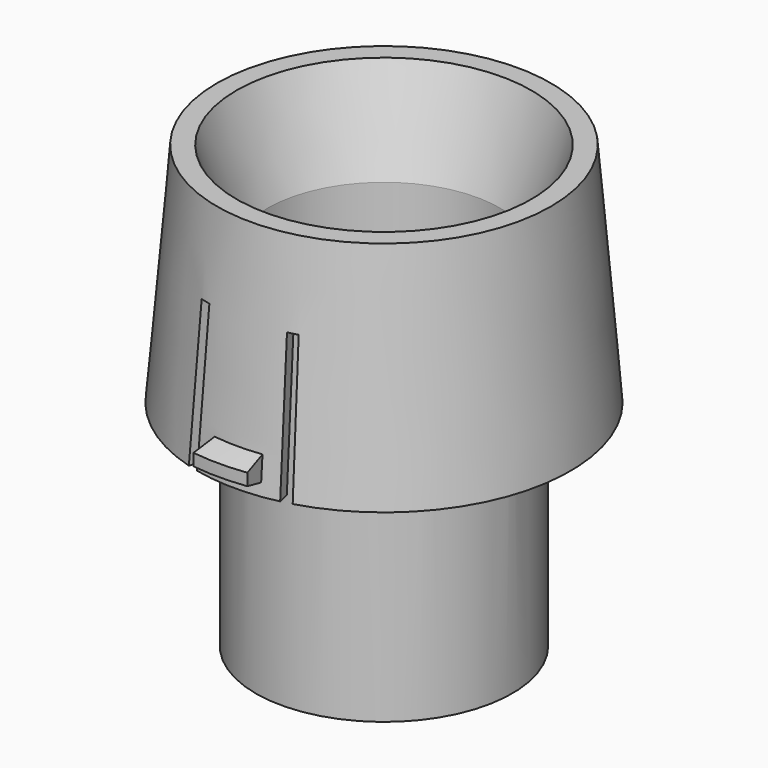
from build123d import *

# Parameters (mm, degrees)
REVOLUTION001_ANGLE = 15
POCKET_DEPTH        = 60
PAD_DEPTH           = 0.75
POLARPATTERN_COUNT  = 10


with BuildPart() as part:
    # Sketch → Revolution (revolve)
    with BuildSketch(Plane.XZ):
        Polygon((-21.5, 58), (-21.5, 0), (-19.5, 0), (-19.5, 58.324363), (-24.721948, 74), (-28, 74), (-31.25, 36), (-29.242699, 36), (-26.163751, 72), align=None)
    revolve(axis=Axis((0, 0, 0), (0, 0, 1)))

    # Sketch001 → Revolution001 (revolve, symmetric)
    with BuildSketch(Plane.YZ) as revolution001_sk:
        Polygon((-31.078947, 38), (-34.578947, 39), (-34.578947, 41), (-30.736842, 42), align=None)
        Polygon((30.736842, 42), (34.578947, 41), (34.578947, 39), (31.078947, 38), align=None)
    revolve(axis=Axis((0, 0, 0), (0, 0, 1)), revolution_arc=REVOLUTION001_ANGLE / 2)
    revolve(revolution001_sk.sketch, axis=Axis((0, 0, 0), (0, 0, -1)), revolution_arc=REVOLUTION001_ANGLE / 2)

    # Sketch002 → Pocket (cut)
    with BuildSketch(Plane(origin=(0, 0, 0), x_dir=(-1, 0, 0), z_dir=(0, 0, -1))):
        with BuildLine():
            ThreePointArc((-8, 35), (-9.003728, 34.755329), (-10, 34.481879))
            Line((-10, 34.481879), (-6.684744, 23.050254))
            ThreePointArc((-5.347795, 23.396604), (-6.018762, 23.233048), (-6.684744, 23.050254))
            Line((-5.347795, 23.396604), (-8, 35))
        make_face()
        with BuildLine():
            ThreePointArc((10, 34.481879), (9.003728, 34.755329), (8, 35))
            Line((5.347795, 23.396604), (8, 35))
            ThreePointArc((6.684744, 23.050254), (6.018762, 23.233048), (5.347795, 23.396604))
            Line((10, 34.481879), (6.684744, 23.050254))
        make_face()
        with BuildLine():
            ThreePointArc((-6.684744, -23.050254), (-6.018762, -23.233048), (-5.347795, -23.396604))
            Line((-5.347795, -23.396604), (-8, -35))
            ThreePointArc((-10, -34.481879), (-9.003728, -34.755329), (-8, -35))
            Line((-10, -34.481879), (-6.684744, -23.050254))
        make_face()
        with BuildLine():
            ThreePointArc((8, -35), (9.003728, -34.755329), (10, -34.481879))
            Line((10, -34.481879), (6.684744, -23.050254))
            ThreePointArc((5.347795, -23.396604), (6.018762, -23.233048), (6.684744, -23.050254))
            Line((5.347795, -23.396604), (8, -35))
        make_face()
    extrude(amount=-POCKET_DEPTH, mode=Mode.SUBTRACT)

    # Sketch003 → Pad (join, symmetric)
    with BuildSketch(Plane.XZ):
        Polygon((-27.536173, 72.984451), (-25.232651, 72.984451), (-20.625607, 57.943802), (-20.625607, 37.347599), (-30.381702, 37.347599), align=None)
    pad = extrude(amount=PAD_DEPTH, both=True)

    # PolarPattern: Pad ×10 about axis
    polarpattern_axis = Axis((0, 0, 0), (0, 0, 1))
    for i in range(1, POLARPATTERN_COUNT):
        add(pad.rotate(polarpattern_axis, i * 360 / POLARPATTERN_COUNT))


solid = part.part
